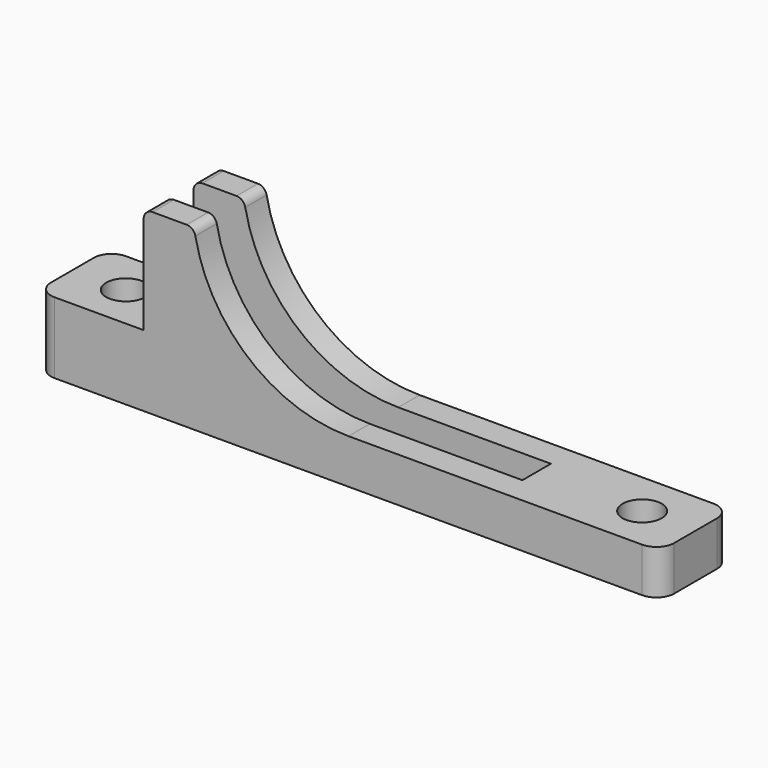
from build123d import *

# Parameters (mm, degrees)
F0_W     = 70
F0_H     = 10
F1_DEPTH = 8
F2_W     = 58
F2_H     = 10
F3_DEPTH = 12
F5_DEPTH = 7.5
F7_D     = 4.4
F8_DEPTH = 2
F9_R     = 1
F10_R    = 2


with BuildPart() as f1:
    # F0 (on Top) → F1 (new body)
    with BuildSketch(Plane.XY):
        Rectangle(F0_W, F0_H)
    extrude(amount=F1_DEPTH)

    # F2 (on face) → F3 (join)
    with BuildSketch(Plane.XY.offset(8)):
        with Locations((6, 0)):
            Rectangle(F2_W, F2_H)
    extrude(amount=F3_DEPTH)

    # F4 (on Front) → F5 (cut, symmetric)
    with BuildSketch(Plane.XZ):
        with BuildLine():
            ThreePointArc((0, 5), (12.3743686708, 10.1256313292), (17.5, 22.5))
            ThreePointArc((17.5, 22.5), (17.4550693399, 23.7532175939), (17.3205080757, 25))
            ThreePointArc((17.3205080757, 25), (-13.2287565553, 33.9564392374), (0, 5))
        make_face()
        with BuildLine():
            ThreePointArc((17.3205080757, 25), (17.4550693399, 23.7532175939), (17.5, 22.5))
            ThreePointArc((17.5, 22.5), (12.3743686708, 10.1256313292), (0, 5))
            Line((0, 5), (17.1464281995, 5))
            ThreePointArc((17.1464281995, 5), (22.5869153592, 13.0088854945), (24.5, 22.5))
            ThreePointArc((24.5, 22.5), (24.4680079159, 23.7516343834), (24.3721152139, 25))
            Line((24.3721152139, 25), (17.3205080757, 25))
        make_face()
        with BuildLine():
            Line((36.3039560616, 25), (24.3721152139, 25))
            ThreePointArc((24.3721152139, 25), (24.4680079159, 23.7516343834), (24.5, 22.5))
            ThreePointArc((24.5, 22.5), (22.5869153592, 13.0088854945), (17.1464281995, 5))
            Line((17.1464281995, 5), (36.3039560616, 5))
            Line((36.3039560616, 5), (36.3039560616, 25))
        make_face()
    extrude(amount=F5_DEPTH, both=True, mode=Mode.SUBTRACT)

    # F7 (through all)
    with Locations(Plane.XY.offset(8)):
        with Locations((-29, 0), (29, 0)):
            Hole(F7_D / 2)

    # F4 (on Front) → F8 (cut, symmetric)
    with BuildSketch(Plane.XZ):
        with BuildLine():
            ThreePointArc((0, 5), (-13.2287565553, 33.9564392374), (17.3205080757, 25))
            Line((17.3205080757, 25), (24.3721152139, 25))
            ThreePointArc((24.3721152139, 25), (-14.008418473, 42.600104773), (-10.7819293264, 0.5))
            Line((-10.7819293264, 0.5), (10.7819293264, 0.5))
            ThreePointArc((10.7819293264, 0.5), (14.1442846593, 2.4952702724), (17.1464281995, 5))
            Line((17.1464281995, 5), (0, 5))
        make_face()
        with BuildLine():
            ThreePointArc((17.3205080757, 25), (17.4550693399, 23.7532175939), (17.5, 22.5))
            ThreePointArc((17.5, 22.5), (12.3743686708, 10.1256313292), (0, 5))
            Line((0, 5), (17.1464281995, 5))
            ThreePointArc((17.1464281995, 5), (22.5869153592, 13.0088854945), (24.5, 22.5))
            ThreePointArc((24.5, 22.5), (24.4680079159, 23.7516343834), (24.3721152139, 25))
            Line((24.3721152139, 25), (17.3205080757, 25))
        make_face()
    extrude(amount=F8_DEPTH, both=True, mode=Mode.SUBTRACT)

    # F9
    f9_edges = [f1.edges().sort_by_distance(p)[0] for p in [
        (-17.320508, 3.5, 20),
        (-17.320508, -3.5, 20),
        (-23, -3.5, 20),
        (-23, 3.5, 20),
        (-23, 0, 14.059028),
    ]]
    fillet(f9_edges, radius=F9_R)

    # F10
    f10_edges = [f1.edges().sort_by_distance(p)[0] for p in [
        (-35, -5, 4),
        (-35, 5, 4),
        (35, -5, 2.5),
        (35, 5, 2.5),
    ]]
    fillet(f10_edges, radius=F10_R)


solid = f1.part
